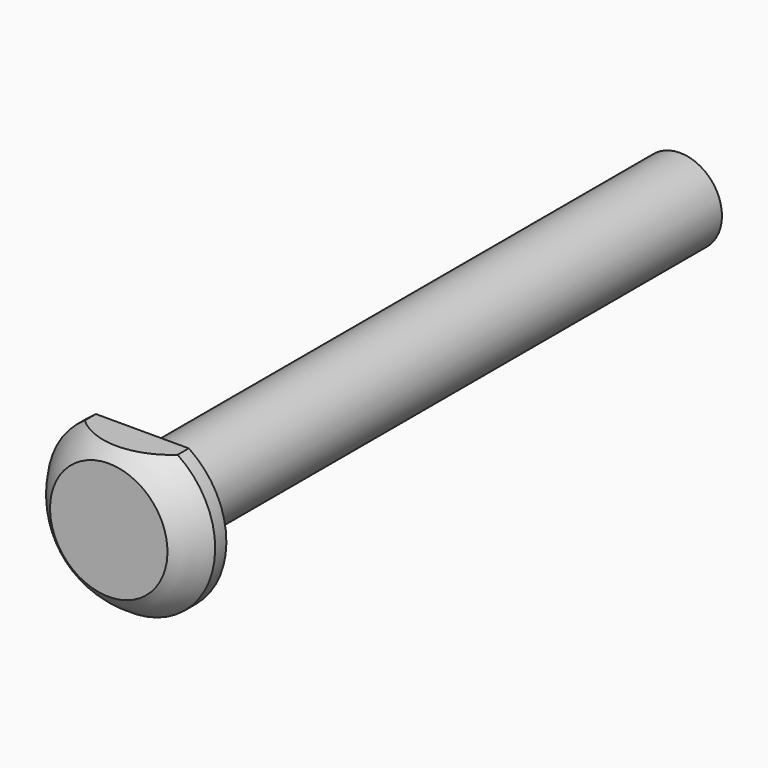
from build123d import *

# Parameters (mm, degrees)
F3_DEPTH = 4.7625


with BuildPart() as f1:
    # F0 (on Right) → F1 (revolve)
    with BuildSketch(Plane.YZ):
        with BuildLine():
            Line((-1.5875, 0), (0, 0))
            Line((0, 0), (76.2, 0))
            Line((76.2, 0), (76.2, 4.74345))
            Line((76.2, 4.74345), (0, 4.74345))
            Line((0, 4.74345), (0, 9.525))
            Line((0, 9.525), (-1.5875, 9.525))
            ThreePointArc((-1.5875, 9.525), (-3.314423, 8.244646), (-4.7625, 6.655734))
            Line((-4.7625, 6.655734), (-4.7625, 0))
            Line((-4.7625, 0), (-1.5875, 0))
        make_face()
    revolve(axis=Axis((0, 38.1, 0), (0, 1, 0)))

    # F2 (on face) → F3 (cut)
    with BuildSketch(Plane.XZ.offset(4.7625)):
        with BuildLine():
            ThreePointArc((5.299691, 7.9375), (0, 9.544141), (-5.299691, 7.9375))
            Line((-5.299691, 7.9375), (5.299691, 7.9375))
        make_face()
    extrude(amount=-F3_DEPTH, mode=Mode.SUBTRACT)


solid = f1.part
